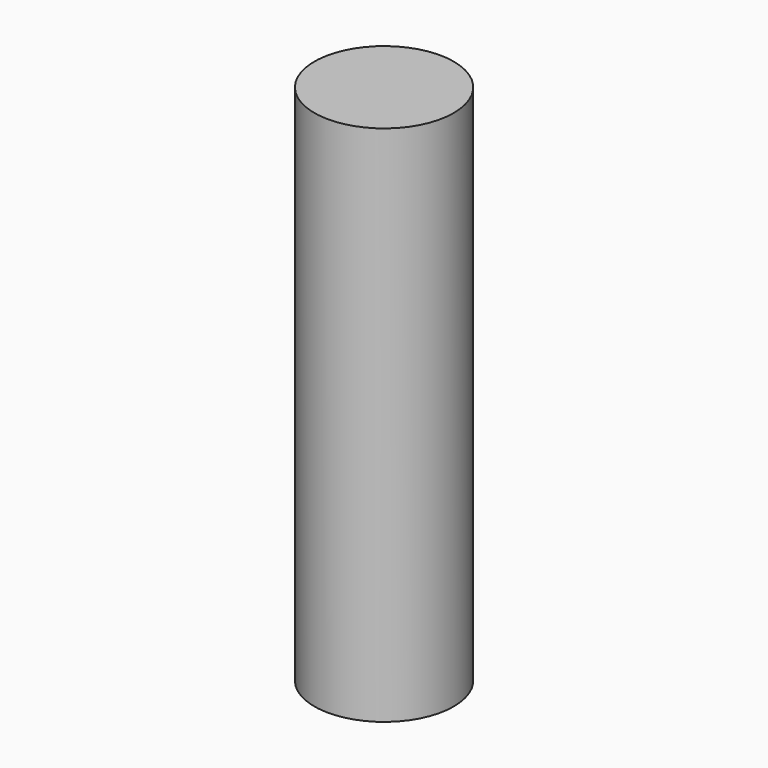
from build123d import *

# Parameters (mm, degrees)
CYLINDER001_R     = 1.6
CYLINDER001_DEPTH = 12


with BuildPart() as part:
    # Cylinder001 → Cylinder001 (new body)
    with BuildSketch(Plane.XY.offset(-5)):
        Circle(CYLINDER001_R)
    extrude(amount=CYLINDER001_DEPTH)


solid = part.part
